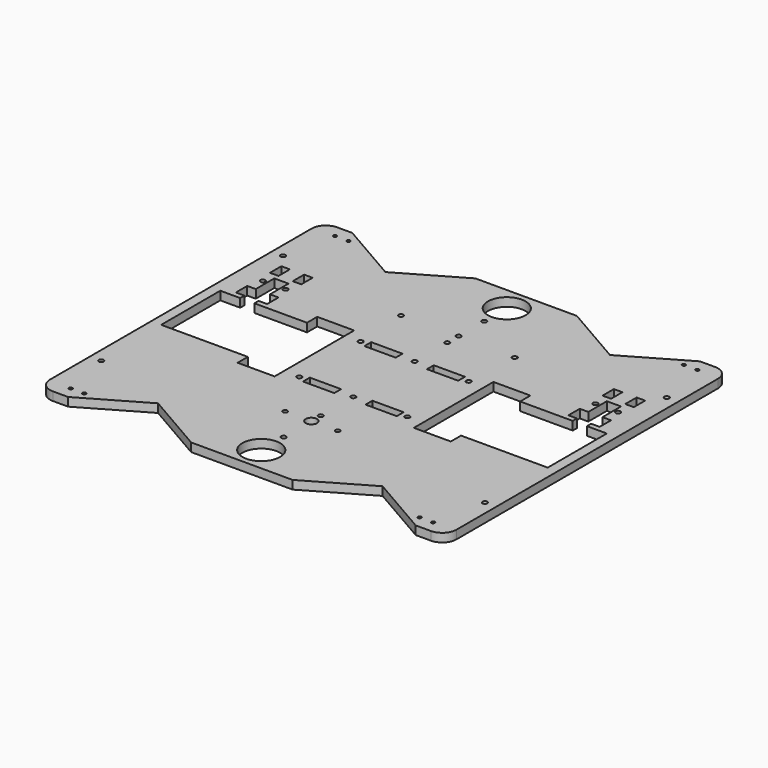
from build123d import *

# Parameters (mm, degrees)
SKETCH_W        = 286
SKETCH_H        = 250
PAD_DEPTH       = 6
SKETCH001_R     = 1.7
SKETCH001_W     = 22
SKETCH001_H     = 6
SKETCH001_W_2   = 26
SKETCH001_H_2   = 35
POCKET_DEPTH    = 765.822032
SKETCH002_R     = 1.7
SKETCH002_W     = 6
SKETCH002_H     = 10
POCKET001_DEPTH = 765.822032
SKETCH003_R     = 1.7
POCKET002_DEPTH = 6.001
SKETCH004_R     = 13.25
SKETCH004_R_2   = 1.7
POCKET003_DEPTH = 765.822032
SKETCH005_R     = 1.7
POCKET004_DEPTH = 6.001
POCKET005_DEPTH = 765.822032
SKETCH007_R     = 1.21
HOLE_DEPTH      = 765.822032
POCKET006_DEPTH = 765.822032
SKETCH009_R     = 4
SKETCH009_R_2   = 1.6
POCKET007_DEPTH = 6.001


with BuildPart() as part:
    # Sketch → Pad (new body)
    with BuildSketch(Plane.XY):
        Rectangle(SKETCH_W, SKETCH_H)
    extrude(amount=PAD_DEPTH)

    # Sketch001 (on Face6 of Pad) → Pocket (cut, through all)
    with BuildSketch(Plane.XY.offset(6)):
        with Locations((-38, 27)):
            Circle(SKETCH001_R)
        with Locations((0, 27)):
            Circle(SKETCH001_R)
        with Locations((38, 27)):
            Circle(SKETCH001_R)
        with Locations((-22, 27)):
            Rectangle(SKETCH001_W, SKETCH001_H)
        with Locations((22, 27)):
            Rectangle(SKETCH001_W, SKETCH001_H)
        with Locations((-62, 17.5)):
            Rectangle(SKETCH001_W_2, SKETCH001_H_2)
        with Locations((62, 17.5)):
            Rectangle(SKETCH001_W_2, SKETCH001_H_2)
    pocket = extrude(amount=-POCKET_DEPTH, mode=Mode.SUBTRACT)

    # Mirrored: Pocket across Sketch001 H_Axis
    add(pocket.mirror(Plane(origin=(0, 0, 6), x_dir=(0, 0, 1), z_dir=(0, 1, 0))), mode=Mode.SUBTRACT)

    # Sketch002 (on Face5 of Mirrored) → Pocket001 (cut, through all)
    with BuildSketch(Plane.XY.offset(6)):
        with Locations((-125, 49.7)):
            Circle(SKETCH002_R)
        with Locations((-109, 49.7)):
            Circle(SKETCH002_R)
        Polygon((-136, 26), (-136, -26), (-75, -26), (-75, 26), (-112, 26), (-112, 29.7), (-106, 29.7), (-106, 39.7), (-112, 39.7), (-112, 56), (-122, 56), (-122, 39.7), (-128, 39.7), (-128, 29.7), (-122, 29.7), (-122, 26), align=None)
        with Locations((-125, 64.7)):
            Rectangle(SKETCH002_W, SKETCH002_H)
        with Locations((-109, 64.7)):
            Rectangle(SKETCH002_W, SKETCH002_H)
    pocket001 = extrude(amount=-POCKET001_DEPTH, mode=Mode.SUBTRACT)

    # Mirrored001: Pocket001 across Sketch002 V_Axis
    add(pocket001.mirror(Plane(origin=(0, 0, 6), x_dir=(0, 0, 1), z_dir=(1, 0, 0))), mode=Mode.SUBTRACT)

    # Sketch003 (on Face5 of Mirrored001) → Pocket002 (cut, through all)
    with BuildSketch(Plane.XY.offset(6)):
        with Locations((-40, 65)):
            Circle(SKETCH003_R)
        with Locations((40, 65)):
            Circle(SKETCH003_R)
    extrude(amount=-POCKET002_DEPTH, mode=Mode.SUBTRACT)

    # Sketch004 → Pocket003 (cut, through all)
    with BuildSketch(Plane.XY.offset(6)):
        with Locations((0, 108)):
            Circle(SKETCH004_R)
        with Locations((0, 88.25)):
            Circle(SKETCH004_R_2)
        with Locations((0, 55.65)):
            Circle(SKETCH004_R_2)
        with Locations((0, 65.65)):
            Circle(SKETCH004_R_2)
    pocket003 = extrude(amount=-POCKET003_DEPTH, mode=Mode.SUBTRACT)

    # Sketch005 → Pocket004 (cut, through all)
    with BuildSketch(Plane.XY.offset(6)):
        with Locations((135, 80)):
            Circle(SKETCH005_R)
        with Locations((-135, 80)):
            Circle(SKETCH005_R)
        with Locations((-135, -80)):
            Circle(SKETCH005_R)
        with Locations((135, -80)):
            Circle(SKETCH005_R)
    extrude(amount=-POCKET004_DEPTH, mode=Mode.SUBTRACT)

    # Sketch006 (on Face5 of Pocket004) → Pocket005 (cut, through all)
    with BuildSketch(Plane.XY.offset(6)):
        with BuildLine():
            Line((-143, -115), (-143, -125))
            Line((-143, -125), (-133, -125))
            ThreePointArc((-143, -115), (-140.071068, -122.071068), (-133, -125))
        make_face()
        with BuildLine():
            Line((143, -115), (143, -125))
            Line((143, -125), (133, -125))
            ThreePointArc((133, -125), (140.071068, -122.071068), (143, -115))
        make_face()
    pocket005 = extrude(amount=-POCKET005_DEPTH, mode=Mode.SUBTRACT)

    # Mirrored004: Pocket005 across Sketch006 H_Axis
    add(pocket005.mirror(Plane(origin=(0, 0, 6), x_dir=(0, 0, 1), z_dir=(0, 1, 0))), mode=Mode.SUBTRACT)

    # Sketch007 (on Face4 of Mirrored004) → Hole (cut, through all)
    with BuildSketch(Plane.XY.offset(6)):
        with Locations((-127.5, -116.2)):
            Circle(SKETCH007_R)
        with Locations((-118, -116.2)):
            Circle(SKETCH007_R)
        with Locations((127.5, -116.2)):
            Circle(SKETCH007_R)
        with Locations((118, -116.2)):
            Circle(SKETCH007_R)
    hole = extrude(amount=-HOLE_DEPTH, mode=Mode.SUBTRACT)

    # Mirrored005: Hole across Sketch007 H_Axis
    add(hole.mirror(Plane(origin=(0, 0, 6), x_dir=(0, 0, 1), z_dir=(0, 1, 0))), mode=Mode.SUBTRACT)

    # Sketch008 (on Face4 of Mirrored005) → Pocket006 (cut, through all)
    with BuildSketch(Plane.XY.offset(6)):
        Polygon((-4, -143.30127), (-79, -100), (-154, -143.30127), (-154, -229.903811), (-79, -273.205081), (-4, -229.903811), align=None)
        Polygon((4, -143.30127), (4, -229.903811), (79, -273.205081), (154, -229.903811), (154, -143.30127), (79, -100), align=None)
    pocket006 = extrude(amount=-POCKET006_DEPTH, mode=Mode.SUBTRACT)

    # Mirrored006: Pocket006 across Sketch008 H_Axis
    add(pocket006.mirror(Plane(origin=(0, 0, 6), x_dir=(0, 0, 1), z_dir=(0, 1, 0))), mode=Mode.SUBTRACT)

    # Sketch009 (on Face4 of Mirrored006) → Pocket007 (cut, through all)
    with BuildSketch(Plane.XY.offset(6)):
        with Locations((0, -63.85)):
            Circle(SKETCH009_R)
        with Locations((-18.5, -63.85)):
            Circle(SKETCH009_R_2)
        with Locations((18.5, -63.85)):
            Circle(SKETCH009_R_2)
    extrude(amount=-POCKET007_DEPTH, mode=Mode.SUBTRACT)

    # Mirrored007: Pocket003 across Sketch004 H_Axis
    add(pocket003.mirror(Plane(origin=(0, 0, 6), x_dir=(0, 0, 1), z_dir=(0, 1, 0))), mode=Mode.SUBTRACT)


solid = part.part
